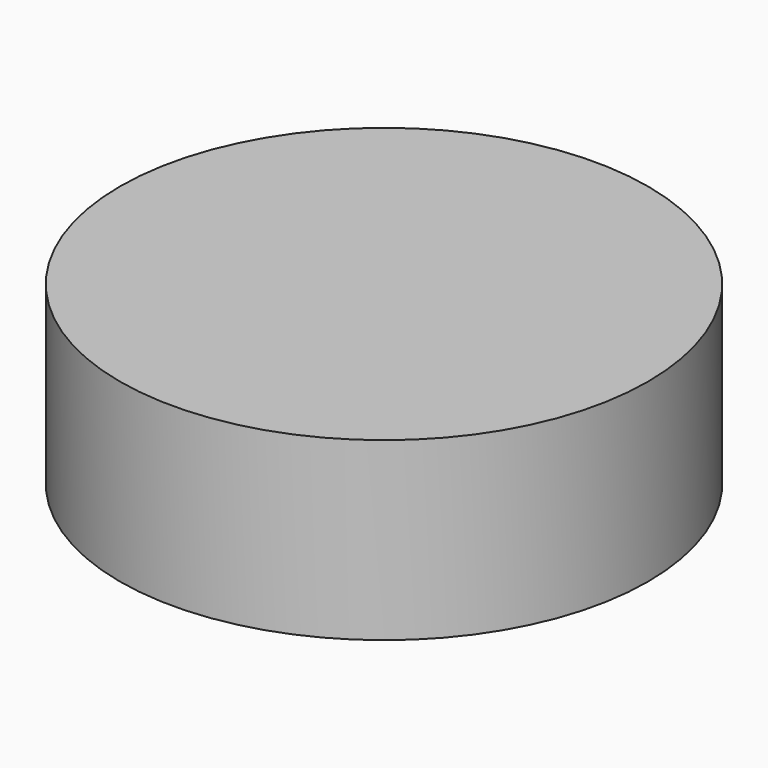
from build123d import *

# Parameters (mm, degrees)
CYLINDER_R     = 381
CYLINDER_DEPTH = 254


with BuildPart() as part:
    # Cylinder → Cylinder (new body)
    with BuildSketch(Plane.XY):
        Circle(CYLINDER_R)
    extrude(amount=CYLINDER_DEPTH)


solid = part.part
